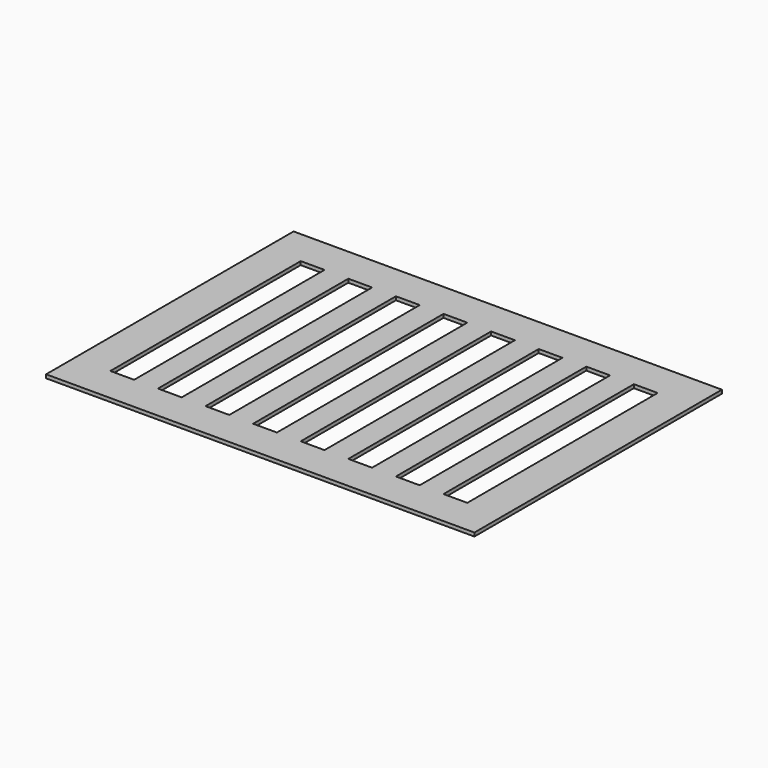
from build123d import *

# Parameters (mm, degrees)
F0_W     = 180
F0_H     = 130
F0_W_2   = 10
F0_H_2   = 100
F1_DEPTH = 1.5


with BuildPart() as f1:
    # F0 (on Top) → F1 (new body)
    with BuildSketch(Plane.XY):
        Rectangle(F0_W, F0_H)
        with Locations((-70, 0)):
            Rectangle(F0_W_2, F0_H_2, mode=Mode.SUBTRACT)
        with Locations((-50, 0)):
            Rectangle(F0_W_2, F0_H_2, mode=Mode.SUBTRACT)
        with Locations((-30, 0)):
            Rectangle(F0_W_2, F0_H_2, mode=Mode.SUBTRACT)
        with Locations((-10, 0)):
            Rectangle(F0_W_2, F0_H_2, mode=Mode.SUBTRACT)
        with Locations((10, 0)):
            Rectangle(F0_W_2, F0_H_2, mode=Mode.SUBTRACT)
        with Locations((30, 0)):
            Rectangle(F0_W_2, F0_H_2, mode=Mode.SUBTRACT)
        with Locations((50, 0)):
            Rectangle(F0_W_2, F0_H_2, mode=Mode.SUBTRACT)
        with Locations((70, 0)):
            Rectangle(F0_W_2, F0_H_2, mode=Mode.SUBTRACT)
    extrude(amount=F1_DEPTH)


solid = f1.part
